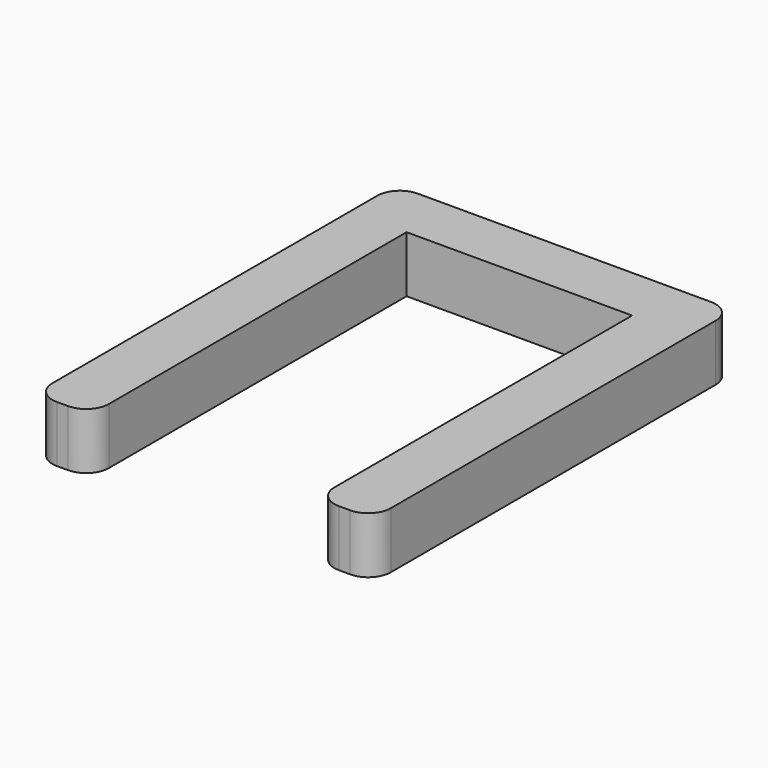
from build123d import *

# Parameters (mm, degrees)
F1_DEPTH = 6.35


with BuildPart() as f1:
    # F0 (on Top) → F1 (new body)
    with BuildSketch(Plane.XY):
        with BuildLine():
            Line((-20.410651, -17.330817), (-20.410651, 24.579183))
            Line((-20.410651, 24.579183), (4.989349, 24.579183))
            Line((4.989349, 24.579183), (4.989349, -17.330817))
            ThreePointArc((4.989349, -17.330817), (5.733297, -19.126869), (7.529349, -19.870817))
            Line((7.529349, -19.870817), (8.799349, -19.870817))
            ThreePointArc((8.799349, -19.870817), (10.5954, -19.126869), (11.339349, -17.330817))
            Line((11.339349, -17.330817), (11.339349, 28.389183))
            ThreePointArc((11.339349, 28.389183), (10.5954, 30.185234), (8.799349, 30.929183))
            Line((8.799349, 30.929183), (-24.220651, 30.929183))
            ThreePointArc((-24.220651, 30.929183), (-26.016703, 30.185234), (-26.760651, 28.389183))
            Line((-26.760651, 28.389183), (-26.760651, -17.330817))
            ThreePointArc((-26.760651, -17.330817), (-26.016703, -19.126869), (-24.220651, -19.870817))
            Line((-24.220651, -19.870817), (-22.950651, -19.870817))
            ThreePointArc((-22.950651, -19.870817), (-21.1546, -19.126869), (-20.410651, -17.330817))
        make_face()
    extrude(amount=F1_DEPTH)


solid = f1.part
